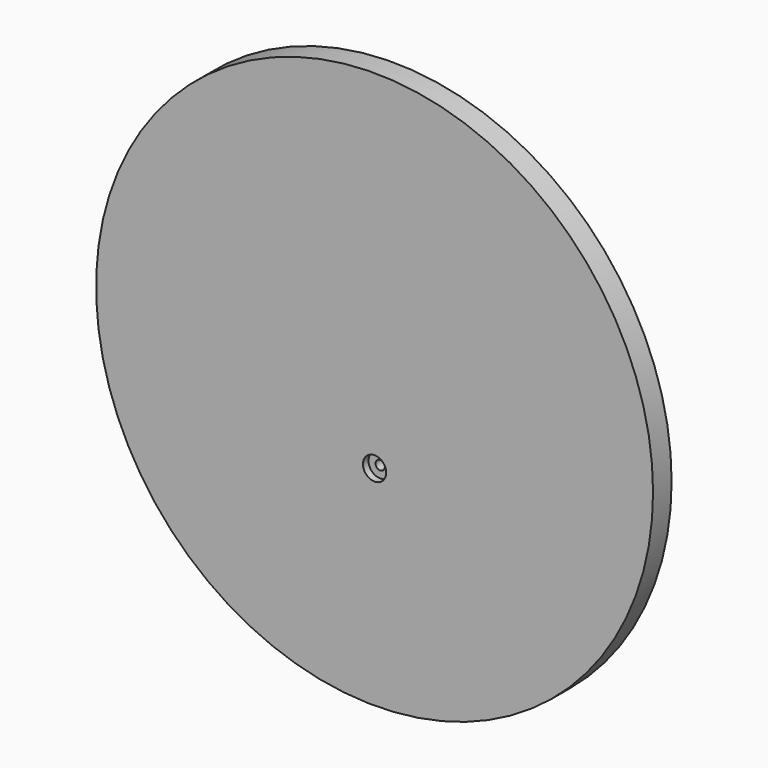
from build123d import *

# Parameters (mm, degrees)
F0_R     = 120
F0_R_2   = 2
F1_DEPTH = 10
F2_R     = 5
F3_DEPTH = 3


with BuildPart() as f1:
    # F0 (on Front) → F1 (new body)
    with BuildSketch(Plane.XZ):
        Circle(F0_R)
        with Locations((0, -30)):
            Circle(F0_R_2, mode=Mode.SUBTRACT)
    extrude(amount=-F1_DEPTH)

    # F2 (on Front) → F3 (cut)
    with BuildSketch(Plane.XZ):
        with Locations((0, -30)):
            Circle(F2_R)
    extrude(amount=-F3_DEPTH, mode=Mode.SUBTRACT)


solid = f1.part
